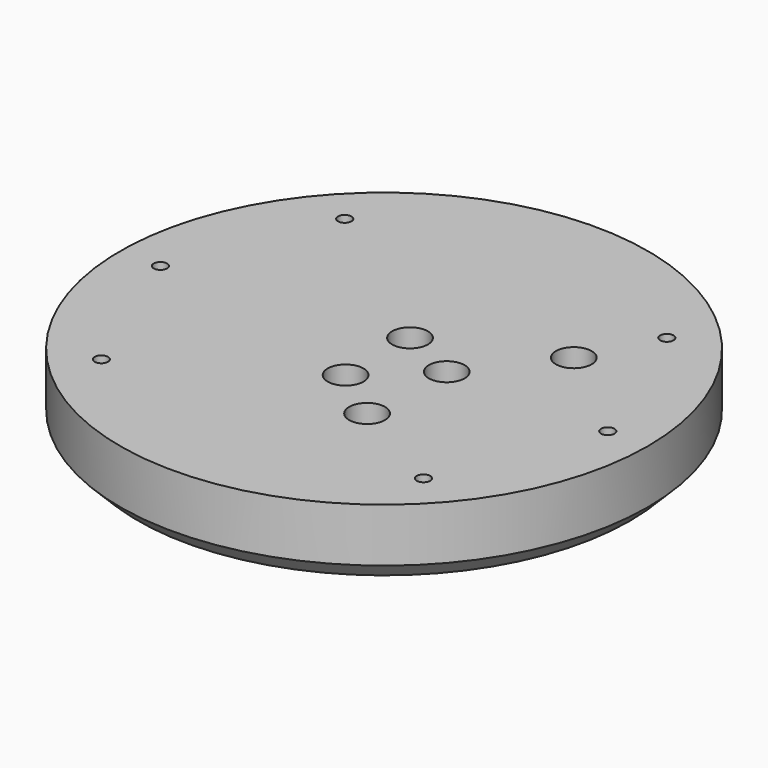
from build123d import *

# Parameters (mm, degrees)
CYLINDER1536_R     = 4
CYLINDER1536_DEPTH = 100
CYLINDER1535_R     = 4
CYLINDER1535_DEPTH = 100
CYLINDER1484_R     = 1.5
CYLINDER1484_DEPTH = 100
CYLINDER1485_R     = 1.5
CYLINDER1485_DEPTH = 100
CYLINDER1486_R     = 1.5
CYLINDER1486_DEPTH = 100
CYLINDER1487_R     = 1.5
CYLINDER1487_DEPTH = 100
CYLINDER1488_R     = 1.5
CYLINDER1488_DEPTH = 100
CYLINDER1483_R     = 1.5
CYLINDER1483_DEPTH = 100
CYLINDER1133_R     = 4
CYLINDER1133_DEPTH = 100
CYLINDER1134_R     = 4
CYLINDER1134_DEPTH = 100
CYLINDER1135_R     = 4
CYLINDER1135_DEPTH = 100
CYLINDER1131_R     = 4
CYLINDER1131_DEPTH = 100
CYLINDER1136_R     = 4
CYLINDER1136_DEPTH = 100
CYLINDER1132_R     = 4
CYLINDER1132_DEPTH = 100
CYLINDER1508_R     = 4
CYLINDER1508_DEPTH = 20
CYLINDER1509_R     = 4
CYLINDER1509_DEPTH = 20
CYLINDER1510_R     = 4
CYLINDER1510_DEPTH = 20
CYLINDER1511_R     = 4
CYLINDER1511_DEPTH = 40
CYLINDER1512_R     = 4
CYLINDER1512_DEPTH = 40
CYLINDER1513_R     = 4
CYLINDER1513_DEPTH = 40
CYLINDER1514_R     = 4
CYLINDER1514_DEPTH = 40
CYLINDER1507_R     = 4
CYLINDER1507_DEPTH = 20
CYLINDER1489_R     = 59
CYLINDER1489_DEPTH = 16
CHAMFER040_SIZE    = 4


with BuildPart() as obj1:
    # Cylinder1536 → Cylinder1536 (new body)
    with BuildSketch(Plane(origin=(14, 0, -18), x_dir=(1, 0, 0), z_dir=(0, 0, 1))):
        Circle(CYLINDER1536_R)
    extrude(amount=CYLINDER1536_DEPTH)


with BuildPart() as obj2:
    # Cylinder1535 → Cylinder1535 (new body)
    with BuildSketch(Plane(origin=(90, 0, -18), x_dir=(1, 0, 0), z_dir=(0, 0, 1))):
        Circle(CYLINDER1535_R)
    extrude(amount=CYLINDER1535_DEPTH)

    # Compound905: union obj1
    add(obj1.part)


with BuildPart() as obj3:
    # Cylinder1484 → Cylinder1484 (new body)
    with BuildSketch(Plane(origin=(-36, 34, -60), x_dir=(1, 0, 0), z_dir=(0, 0, 1))):
        Circle(CYLINDER1484_R)
    extrude(amount=CYLINDER1484_DEPTH)


with BuildPart() as obj4:
    # Cylinder1485 → Cylinder1485 (new body)
    with BuildSketch(Plane(origin=(-36, -34, -60), x_dir=(1, 0, 0), z_dir=(0, 0, 1))):
        Circle(CYLINDER1485_R)
    extrude(amount=CYLINDER1485_DEPTH)


with BuildPart() as obj5:
    # Cylinder1486 → Cylinder1486 (new body)
    with BuildSketch(Plane(origin=(50, 0, -60), x_dir=(1, 0, 0), z_dir=(0, 0, 1))):
        Circle(CYLINDER1486_R)
    extrude(amount=CYLINDER1486_DEPTH)


with BuildPart() as obj6:
    # Cylinder1487 → Cylinder1487 (new body)
    with BuildSketch(Plane(origin=(36, 34, -60), x_dir=(1, 0, 0), z_dir=(0, 0, 1))):
        Circle(CYLINDER1487_R)
    extrude(amount=CYLINDER1487_DEPTH)


with BuildPart() as obj7:
    # Cylinder1488 → Cylinder1488 (new body)
    with BuildSketch(Plane(origin=(36, -34, -60), x_dir=(1, 0, 0), z_dir=(0, 0, 1))):
        Circle(CYLINDER1488_R)
    extrude(amount=CYLINDER1488_DEPTH)


with BuildPart() as obj8:
    # Cylinder1483 → Cylinder1483 (new body)
    with BuildSketch(Plane(origin=(-50, 0, -60), x_dir=(1, 0, 0), z_dir=(0, 0, 1))):
        Circle(CYLINDER1483_R)
    extrude(amount=CYLINDER1483_DEPTH)

    # Compound892: union obj3, obj4, obj5, obj6, obj7
    add(obj3.part)
    add(obj4.part)
    add(obj5.part)
    add(obj6.part)
    add(obj7.part)


with BuildPart() as obj9:
    # Cylinder1133 → Cylinder1133 (new body)
    with BuildSketch(Plane(origin=(-36, 34, -90), x_dir=(1, 0, 0), z_dir=(0, 0, 1))):
        Circle(CYLINDER1133_R)
    extrude(amount=CYLINDER1133_DEPTH)


with BuildPart() as obj10:
    # Cylinder1134 → Cylinder1134 (new body)
    with BuildSketch(Plane(origin=(-36, -34, -90), x_dir=(1, 0, 0), z_dir=(0, 0, 1))):
        Circle(CYLINDER1134_R)
    extrude(amount=CYLINDER1134_DEPTH)


with BuildPart() as obj11:
    # Cylinder1135 → Cylinder1135 (new body)
    with BuildSketch(Plane(origin=(50, 0, -90), x_dir=(1, 0, 0), z_dir=(0, 0, 1))):
        Circle(CYLINDER1135_R)
    extrude(amount=CYLINDER1135_DEPTH)


with BuildPart() as obj12:
    # Cylinder1131 → Cylinder1131 (new body)
    with BuildSketch(Plane(origin=(36, 34, -90), x_dir=(1, 0, 0), z_dir=(0, 0, 1))):
        Circle(CYLINDER1131_R)
    extrude(amount=CYLINDER1131_DEPTH)


with BuildPart() as obj13:
    # Cylinder1136 → Cylinder1136 (new body)
    with BuildSketch(Plane(origin=(36, -34, -90), x_dir=(1, 0, 0), z_dir=(0, 0, 1))):
        Circle(CYLINDER1136_R)
    extrude(amount=CYLINDER1136_DEPTH)


with BuildPart() as obj14:
    # Cylinder1132 → Cylinder1132 (new body)
    with BuildSketch(Plane(origin=(-50, 0, -90), x_dir=(1, 0, 0), z_dir=(0, 0, 1))):
        Circle(CYLINDER1132_R)
    extrude(amount=CYLINDER1132_DEPTH)

    # Compound897: union obj9, obj10, obj11, obj12, obj13
    add(obj9.part)
    add(obj10.part)
    add(obj11.part)
    add(obj12.part)
    add(obj13.part)


with BuildPart() as obj15:
    # Cylinder1508 → Cylinder1508 (new body)
    with BuildSketch(Plane(origin=(103, 6, -20), x_dir=(1, 0, 0), z_dir=(0, 0, 1))):
        Circle(CYLINDER1508_R)
    extrude(amount=CYLINDER1508_DEPTH)


with BuildPart() as obj16:
    # Cylinder1509 → Cylinder1509 (new body)
    with BuildSketch(Plane(origin=(76, 18, -18), x_dir=(1, 0, 0), z_dir=(0, 0, 1))):
        Circle(CYLINDER1509_R)
    extrude(amount=CYLINDER1509_DEPTH)


with BuildPart() as obj17:
    # Cylinder1510 → Cylinder1510 (new body)
    with BuildSketch(Plane(origin=(91, -21, -18), x_dir=(1, 0, 0), z_dir=(0, 0, 1))):
        Circle(CYLINDER1510_R)
    extrude(amount=CYLINDER1510_DEPTH)


with BuildPart() as obj18:
    # Cylinder1511 → Cylinder1511 (new body)
    with BuildSketch(Plane(origin=(13, -21, -18), x_dir=(1, 0, 0), z_dir=(0, 0, 1))):
        Circle(CYLINDER1511_R)
    extrude(amount=CYLINDER1511_DEPTH)


with BuildPart() as obj19:
    # Cylinder1512 → Cylinder1512 (new body)
    with BuildSketch(Plane(origin=(28, 18, -18), x_dir=(1, 0, 0), z_dir=(0, 0, 1))):
        Circle(CYLINDER1512_R)
    extrude(amount=CYLINDER1512_DEPTH)


with BuildPart() as obj20:
    # Cylinder1513 → Cylinder1513 (new body)
    with BuildSketch(Plane(origin=(1, -12, -18), x_dir=(1, 0, 0), z_dir=(0, 0, 1))):
        Circle(CYLINDER1513_R)
    extrude(amount=CYLINDER1513_DEPTH)


with BuildPart() as obj21:
    # Cylinder1514 → Cylinder1514 (new body)
    with BuildSketch(Plane(origin=(1, 6, -18), x_dir=(1, 0, 0), z_dir=(0, 0, 1))):
        Circle(CYLINDER1514_R)
    extrude(amount=CYLINDER1514_DEPTH)


with BuildPart() as obj22:
    # Cylinder1507 → Cylinder1507 (new body)
    with BuildSketch(Plane(origin=(103, -12, -20), x_dir=(1, 0, 0), z_dir=(0, 0, 1))):
        Circle(CYLINDER1507_R)
    extrude(amount=CYLINDER1507_DEPTH)

    # Compound895: union obj15, obj16, obj17, obj18, obj19, obj20, obj21
    add(obj15.part)
    add(obj16.part)
    add(obj17.part)
    add(obj18.part)
    add(obj19.part)
    add(obj20.part)
    add(obj21.part)


with BuildPart() as cut529:
    # Cylinder1489 → Cylinder1489 (new body)
    with BuildSketch(Plane.XY.offset(2)):
        Circle(CYLINDER1489_R)
    extrude(amount=CYLINDER1489_DEPTH)

    # Cut512: cut obj22
    add(obj22.part, mode=Mode.SUBTRACT)

    # Cut516: cut obj14
    add(obj14.part, mode=Mode.SUBTRACT)

    # Cut518: cut obj8
    add(obj8.part, mode=Mode.SUBTRACT)

    # Chamfer040
    chamfer040_edges = [cut529.edges().sort_by_distance(p)[0] for p in [
        (-59, 0, 2),
    ]]
    chamfer(chamfer040_edges, length=CHAMFER040_SIZE)

    # Cut529: cut obj2
    add(obj2.part, mode=Mode.SUBTRACT)


with BuildPart() as cut529_1:
    # Cut529 placement: moved
    add(cut529.part.moved(Location((0, 0, 4))))


solid = cut529_1.part
